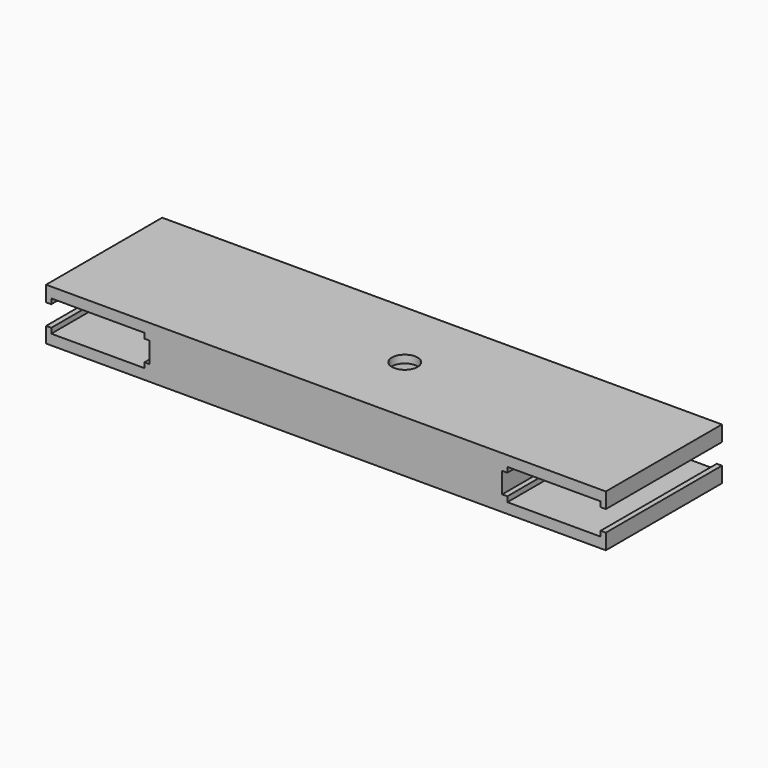
from build123d import *

# Parameters (mm, degrees)
F0_W     = 137.16
F0_H     = 35.56
F1_DEPTH = 12.7
F2_R     = 10.1577407599
F3_DEPTH = 10.795
F4_R     = 3.15
F5_DEPTH = 1.905
F6_W     = 22.86
F6_H     = 1.27
F6_H_2   = 5.08
F6_W_2   = 1.27
F7_DEPTH = 50.8


with BuildPart() as f1:
    # F0 (on Top) → F1 (new body)
    with BuildSketch(Plane.XY):
        Rectangle(F0_W, F0_H)
    extrude(amount=F1_DEPTH)

    # F2 (on face) → F3 (cut)
    with BuildSketch(Plane(origin=(0, 0, 0), x_dir=(1, 0, 0), z_dir=(0, 0, -1))):
        with Locations((5.08, 0)):
            Circle(F2_R)
    extrude(amount=-F3_DEPTH, mode=Mode.SUBTRACT)

    # F4 (on face) → F5 (cut)
    with BuildSketch(Plane(origin=(0, 0, 10.795), x_dir=(1, 0, 0), z_dir=(0, 0, -1))):
        with Locations((5.08, 0)):
            Circle(F4_R)
    extrude(amount=-F5_DEPTH, mode=Mode.SUBTRACT)

    # F6 (on face) → F7 (cut)
    with BuildSketch(Plane.XZ.offset(17.78)):
        with Locations((55.88, 3.175)):
            Rectangle(F6_W, F6_H)
        with Locations((55.88, 6.35)):
            Rectangle(F6_W, F6_H_2)
        with Locations((43.815, 6.35)):
            Rectangle(F6_W_2, F6_H_2)
        with Locations((55.88, 9.525)):
            Rectangle(F6_W, F6_H)
        with Locations((67.945, 6.35)):
            Rectangle(F6_W_2, F6_H_2)
        with Locations((-55.88, 3.175)):
            Rectangle(F6_W, F6_H)
        with Locations((-55.88, 6.35)):
            Rectangle(F6_W, F6_H_2)
        with Locations((-67.945, 6.35)):
            Rectangle(F6_W_2, F6_H_2)
        with Locations((-43.815, 6.35)):
            Rectangle(F6_W_2, F6_H_2)
        with Locations((-55.88, 9.525)):
            Rectangle(F6_W, F6_H)
    extrude(amount=-F7_DEPTH, mode=Mode.SUBTRACT)


solid = f1.part
